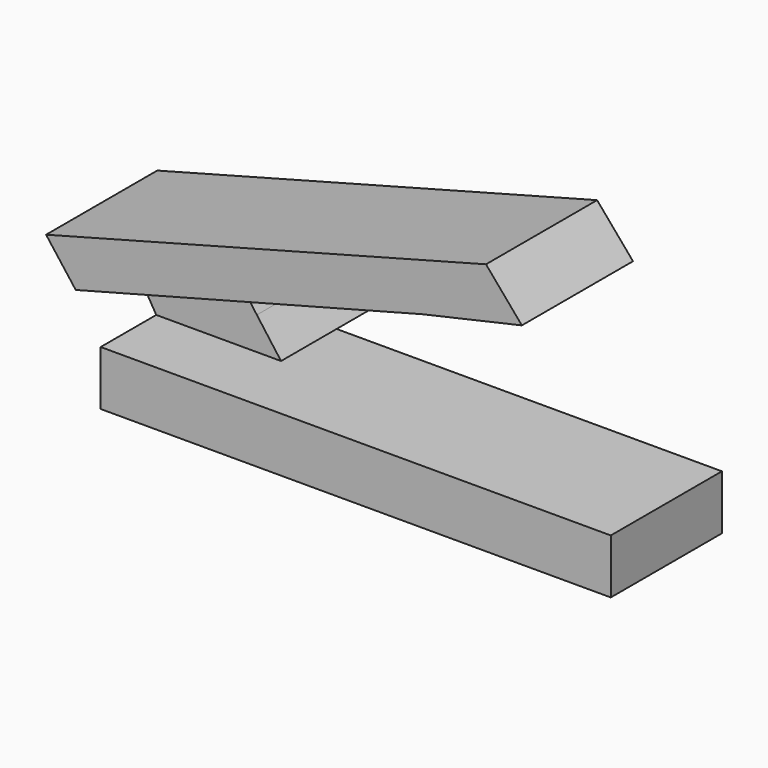
from build123d import *

# Parameters (mm, degrees)
F1_DEPTH = 25.4
F2_DEPTH = 12.7


with BuildPart() as f1:
    # F0 (on Front) → F1 (new body)
    with BuildSketch(Plane.XZ):
        Polygon((-56.762889, 19.538984), (-51.343314, 12.407968), (12.019784, 29.10491), (30.23551, 33.230536), (23.674972, 40.932029), align=None)
        Polygon((-23.960212, 4.706471), (-46.779465, 4.706471), (-46.779465, -5.276952), (46.494223, -5.276952), (46.494223, 4.706471), align=None)
    extrude(amount=F1_DEPTH)

    # F0 (on Front) → F2 (join, symmetric)
    with BuildSketch(Plane.XZ):
        Polygon((-51.343314, 12.407968), (-46.779465, 4.706471), (-23.960212, 4.706471), (-28.381444, 10.696524), (-32.802675, 16.686577), align=None)
    extrude(amount=F2_DEPTH, both=True)


solid = f1.part
